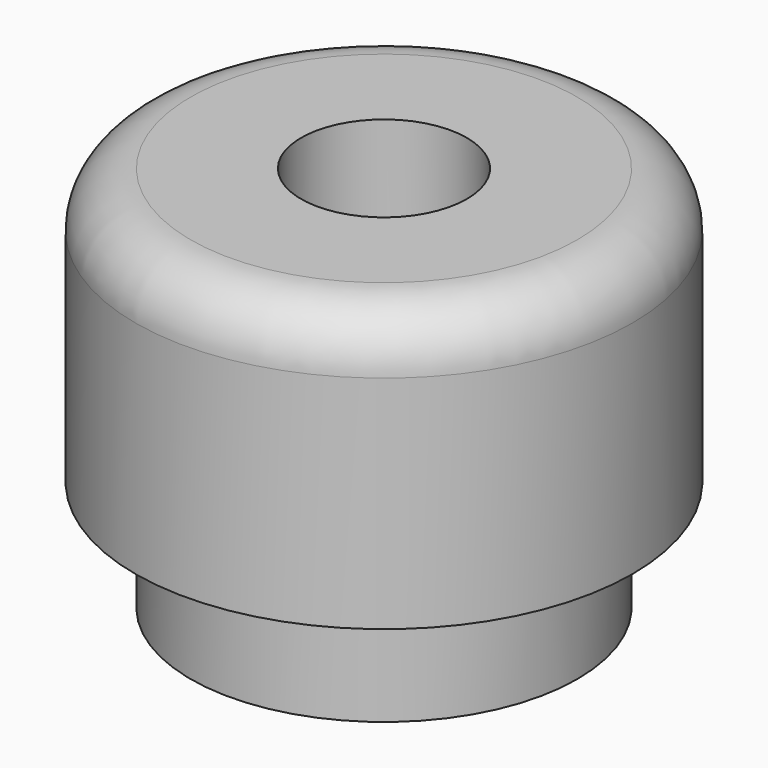
from build123d import *

# Parameters (mm, degrees)
F0_W   = 4.5
F0_H   = 7
F0_W_2 = 5
F0_H_2 = 3
F0_H_3 = 15
F0_H_4 = 10
F2_R   = 5


with BuildPart() as f1:
    # F0 (on Front) → F1 (revolve)
    with BuildSketch(Plane.XZ):
        with Locations((5.25, 16.5)):
            Rectangle(F0_W, F0_H)
        with Locations((20, 11.5)):
            Rectangle(F0_W_2, F0_H_2)
        with Locations((20, 16.5)):
            Rectangle(F0_W_2, F0_H)
        with Locations((20, 27.5)):
            Rectangle(F0_W_2, F0_H_3)
        with Locations((15, 27.5)):
            Rectangle(F0_W_2, F0_H_3)
        with Locations((10, 27.5)):
            Rectangle(F0_W_2, F0_H_3)
        with Locations((10, 16.5)):
            Rectangle(F0_W_2, F0_H)
        with Locations((15, 16.5)):
            Rectangle(F0_W_2, F0_H)
        with Locations((15, 5)):
            Rectangle(F0_W_2, F0_H_4)
        with Locations((15, 11.5)):
            Rectangle(F0_W_2, F0_H_2)
    revolve(axis=Axis((0, 0, 17.5), (0, 0, 1)))

    # F2
    f2_edges = [f1.edges().sort_by_distance(p)[0] for p in [
        (-22.5, 0, 35),
    ]]
    fillet(f2_edges, radius=F2_R)


solid = f1.part
